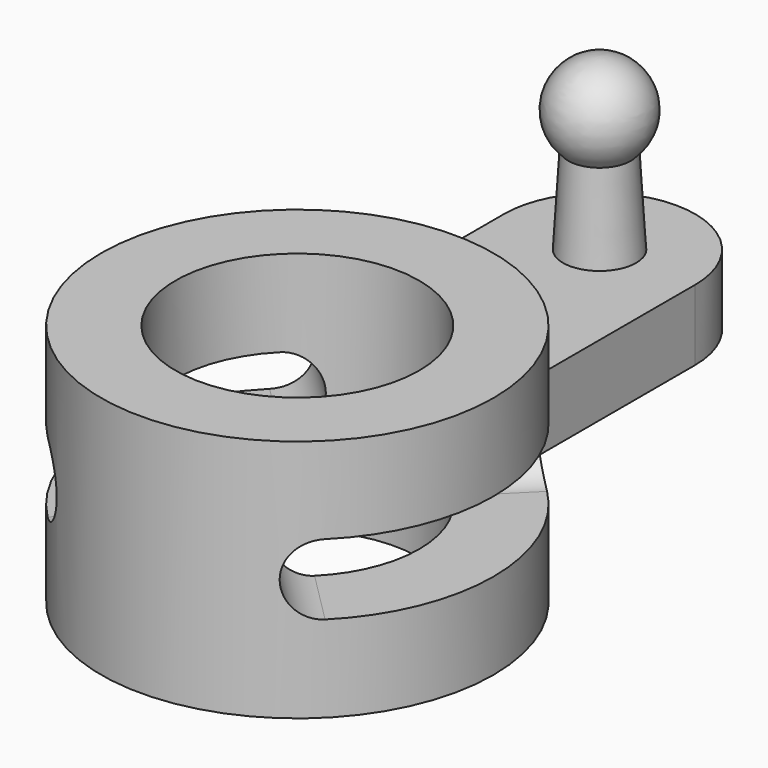
from build123d import *

# Parameters (mm, degrees)
F1_DEPTH  = 1.45
F2_R      = 8.05
F2_R_2    = 5
F3_DEPTH  = 5
F4_W      = 3.1
F4_H      = 2.9
F6_ANGLE  = -90
F11_R     = 1.45
F12_DEPTH = 25
F14_R     = 1.45
F15_DEPTH = 12.5


with BuildPart() as f1:
    # F0 (on Top) → F1 (new body, symmetric)
    with BuildSketch(Plane.XY):
        with BuildLine():
            ThreePointArc((-3.925, 7.028291), (0, 8.05), (3.925, 7.028291))
            Line((3.925, 7.028291), (3.925, 15.5))
            ThreePointArc((3.925, 15.5), (0, 19.425), (-3.925, 15.5))
            Line((-3.925, 15.5), (-3.925, 7.028291))
        make_face()
    extrude(amount=F1_DEPTH, both=True)

    # F2 (on Top) → F3 (join, symmetric)
    with BuildSketch(Plane.XY):
        Circle(F2_R)
        Circle(F2_R_2, mode=Mode.SUBTRACT)
    extrude(amount=F3_DEPTH, both=True)

    # F4 (on Front) → F6 (revolve, symmetric, cut)
    with BuildSketch(Plane.XZ) as f6_sk:
        with Locations((-6.5, 0)):
            Rectangle(F4_W, F4_H)
        with Locations((6.5, 0)):
            Rectangle(F4_W, F4_H)
    revolve(axis=Axis((0, 0, 0.165465), (0, 0, 1)), revolution_arc=F6_ANGLE / 2, mode=Mode.SUBTRACT)
    revolve(f6_sk.sketch, axis=Axis((0, 0, 0.165465), (0, 0, -1)), revolution_arc=F6_ANGLE / 2, mode=Mode.SUBTRACT)

    # F7 (on Right) → F8 (revolve)
    with BuildSketch(Plane.YZ):
        with BuildLine():
            Line((14, 1.45), (15.5, 1.45))
            Line((15.5, 1.45), (15.5, 6.5))
            Line((15.5, 6.5), (15.5, 8.425))
            ThreePointArc((15.5, 8.425), (13.701718, 7.186883), (14.216667, 5.06519))
            Line((14.216667, 5.06519), (14, 1.45))
        make_face()
    revolve(axis=Axis((0, 15.5, 3.25), (0, 0, 1)))

    # F11 (on face) → F12 (cut)
    with BuildSketch(Plane(origin=(7.946074, 7.946074, 0), x_dir=(-0.707107, 0.707107, 0), z_dir=(0.707107, 0.707107, 0))):
        Circle(F11_R)
    extrude(amount=-F12_DEPTH, mode=Mode.SUBTRACT)

    # F14 (on face) → F15 (cut, symmetric)
    with BuildSketch(Plane(origin=(0, 0, 0), x_dir=(0.707107, 0.707107, 0), z_dir=(0.707107, -0.707107, 0))):
        Circle(F14_R)
    extrude(amount=F15_DEPTH, both=True, mode=Mode.SUBTRACT)


solid = f1.part
